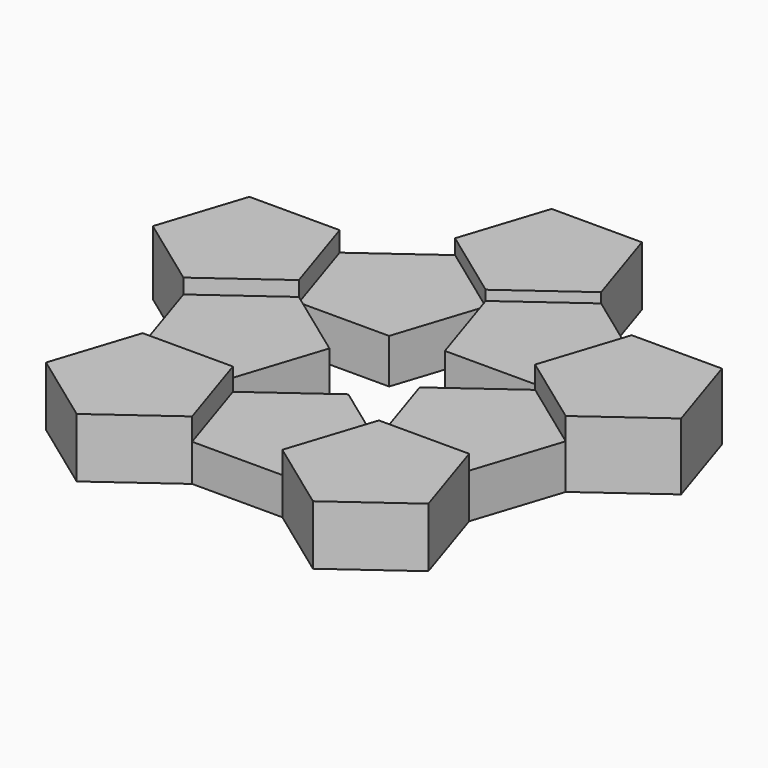
from build123d import *

# Parameters (mm, degrees)
F1_DEPTH  = 7.5
F3_DEPTH  = 12
F5_DEPTH  = 9
F7_DEPTH  = 13.5
F9_DEPTH  = 10
F11_DEPTH = 12
F13_DEPTH = 9
F15_DEPTH = 13
F17_DEPTH = 10
F19_DEPTH = 12


with BuildPart() as f1:
    # F0 (on Top) → F1 (new body)
    with BuildSketch(Plane.XY):
        Polygon((14.7413760026, 4.7897634128), (0, 15.5), (-14.7413760026, 4.7897634128), (-9.1106714105, -12.5397634128), (9.1106714105, -12.5397634128), align=None)
    extrude(amount=F1_DEPTH)

    # F2 (on Top) → F3 (join)
    with BuildSketch(Plane.XY):
        Polygon((32.9627188236, 4.7897634128), (14.7413760026, 4.7897634128), (9.1106714105, -12.5397634128), (23.8520474131, -23.25), (38.5934234157, -12.5397634128), align=None)
    extrude(amount=F3_DEPTH)

    # F4 (on Top) → F5 (join)
    with BuildSketch(Plane.XY):
        Polygon((14.7413760026, 4.7897634128), (32.9627188236, 4.7897634128), (38.5934234157, 22.1192902384), (23.8520474131, 32.8295268256), (9.1106714105, 22.1192902384), align=None)
    extrude(amount=F5_DEPTH)

    # F6 (on Top) → F7 (join)
    with BuildSketch(Plane.XY):
        Polygon((23.8520474131, 32.8295268256), (38.5934234157, 22.1192902384), (53.3347994183, 32.8295268256), (47.7040948262, 50.1590536512), (29.4827520051, 50.1590536512), align=None)
    extrude(amount=F7_DEPTH)

    # F8 (on Top) → F9 (join)
    with BuildSketch(Plane.XY):
        Polygon((5.630704592, 32.8295268256), (23.8520474131, 32.8295268256), (29.4827520051, 50.1590536512), (14.7413760026, 60.8692902384), (0, 50.1590536512), align=None)
    extrude(amount=F9_DEPTH)

    # F10 (on Top) → F11 (join)
    with BuildSketch(Plane.XY):
        Polygon((-14.7413760026, 60.8692902384), (0, 50.1590536512), (14.7413760026, 60.8692902384), (9.1106714105, 78.1988170641), (-9.1106714105, 78.1988170641), align=None)
    extrude(amount=F11_DEPTH)

    # F12 (on Top) → F13 (join)
    with BuildSketch(Plane.XY):
        Polygon((-23.8520474131, 32.8295268256), (-5.630704592, 32.8295268256), (0, 50.1590536512), (-14.7413760026, 60.8692902384), (-29.4827520051, 50.1590536512), align=None)
    extrude(amount=F13_DEPTH)

    # F14 (on Top) → F15 (join)
    with BuildSketch(Plane.XY):
        Polygon((-53.3347994183, 32.8295268256), (-38.5934234157, 22.1192902384), (-23.8520474131, 32.8295268256), (-29.4827520051, 50.1590536512), (-47.7040948262, 50.1590536512), align=None)
    extrude(amount=F15_DEPTH)

    # F16 (on Top) → F17 (join)
    with BuildSketch(Plane.XY):
        Polygon((-32.9627188236, 4.7897634128), (-14.7413760026, 4.7897634128), (-9.1106714105, 22.1192902384), (-23.8520474131, 32.8295268256), (-38.5934234157, 22.1192902384), align=None)
    extrude(amount=F17_DEPTH)

    # F18 (on Top) → F19 (join)
    with BuildSketch(Plane.XY):
        Polygon((-23.8520474131, -23.25), (-9.1106714105, -12.5397634128), (-14.7413760026, 4.7897634128), (-32.9627188236, 4.7897634128), (-38.5934234157, -12.5397634128), align=None)
        Polygon((-23.8520474131, -23.25), (-9.1106714105, -12.5397634128), (-14.7413760026, 4.7897634128), (-32.9627188236, 4.7897634128), (-38.5934234157, -12.5397634128), align=None)
    extrude(amount=F19_DEPTH)


solid = f1.part
